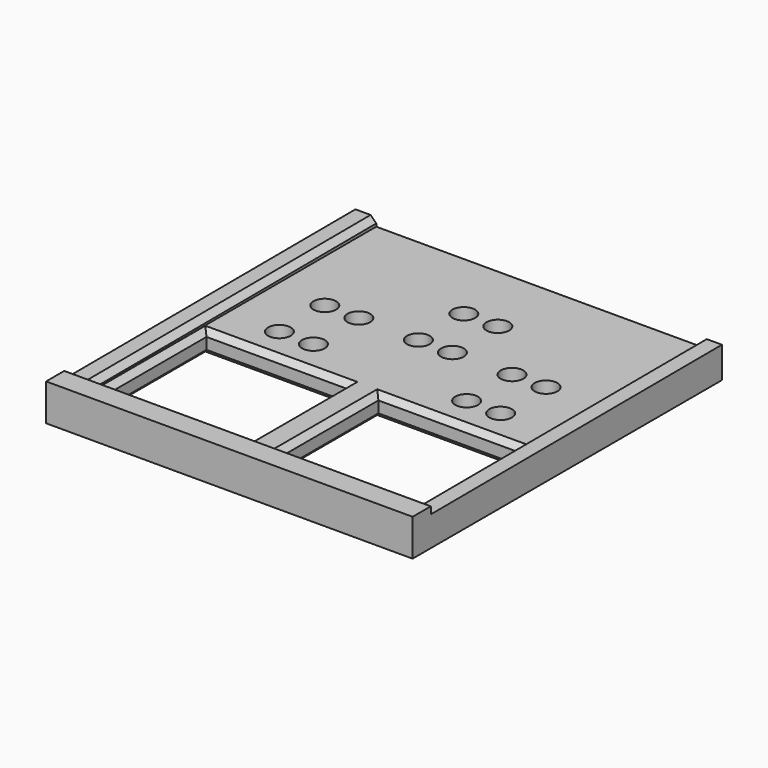
from build123d import *

# Parameters (mm, degrees)
F0_W     = 64.6
F0_H     = 136.3
F0_W_2   = 49.6
F0_H_2   = 48.8
F1_DEPTH = 13
F3_DEPTH = 57.25
F4_DEPTH = 64.6
F5_SIZE  = 2
F6_R     = 2
F7_DEPTH = 8
F6_R_2   = 4
F8_DEPTH = 5.5


with BuildPart() as f1:
    # F0 (on Top) → F1 (new body)
    with BuildSketch(Plane.XY):
        with Locations((-32.3, 15.001252)):
            Rectangle(F0_W, F0_H)
        with Locations((-30.3, -18.748748)):
            Rectangle(F0_W_2, F0_H_2, mode=Mode.SUBTRACT)
    extrude(amount=-F1_DEPTH)

    # F2 (on face) → F3 (cut)
    with BuildSketch(Plane.YZ):
        Polygon((-45.148748, -2.5), (-45.148748, -1), (-49.148748, -5), (83.151252, -5), (83.151252, -2), align=None)
    extrude(amount=-F3_DEPTH, mode=Mode.SUBTRACT)

    # F2 (on face) → F4 (cut, through all)
    with BuildSketch(Plane.YZ):
        Polygon((83.151252, 0), (-45.148748, 0), (-45.148748, -1), (-45.148748, -2.5), (83.151252, -2), align=None)
    extrude(amount=-F4_DEPTH, mode=Mode.SUBTRACT)

    # F5
    f5_edges = [f1.edges().sort_by_distance(p)[0] for p in [
        (-57.25, 19.001252, -2.25),
        (-30.3, -43.148748, -5),
        (-55.1, -18.748748, -5),
        (-30.3, 5.651252, -5),
        (-5.5, -18.748748, -5),
        (-30.3, 5.651252, -13),
        (-55.1, -18.748748, -13),
        (-30.3, -43.148748, -13),
        (-5.5, -18.748748, -13),
    ]]
    chamfer(f5_edges, length=F5_SIZE)

    # F6 (on face) → F7 (cut, through all)
    with BuildSketch(Plane.XY.offset(-5)):
        with Locations((-6, 57.651252)):
            Circle(F6_R)
        with Locations((-6, 37.651252)):
            Circle(F6_R)
        with Locations((-27, 37.651252)):
            Circle(F6_R)
        with Locations((-39, 37.651252)):
            Circle(F6_R)
        with Locations((-39, 17.651252)):
            Circle(F6_R)
        with Locations((-27, 17.651252)):
            Circle(F6_R)
    extrude(amount=-F7_DEPTH, mode=Mode.SUBTRACT)

    # F6 (on face) → F8 (cut)
    with BuildSketch(Plane.XY.offset(-5)):
        with Locations((-6, 57.651252)):
            Circle(F6_R_2)
        with Locations((-6, 57.651252)):
            Circle(F6_R, mode=Mode.SUBTRACT)
        with Locations((-6, 37.651252)):
            Circle(F6_R_2)
        with Locations((-6, 37.651252)):
            Circle(F6_R, mode=Mode.SUBTRACT)
        with Locations((-27, 37.651252)):
            Circle(F6_R_2)
        with Locations((-27, 37.651252)):
            Circle(F6_R, mode=Mode.SUBTRACT)
        with Locations((-39, 37.651252)):
            Circle(F6_R_2)
        with Locations((-39, 37.651252)):
            Circle(F6_R, mode=Mode.SUBTRACT)
        with Locations((-39, 17.651252)):
            Circle(F6_R_2)
        with Locations((-39, 17.651252)):
            Circle(F6_R, mode=Mode.SUBTRACT)
        with Locations((-27, 17.651252)):
            Circle(F6_R_2)
        with Locations((-27, 17.651252)):
            Circle(F6_R, mode=Mode.SUBTRACT)
    extrude(amount=-F8_DEPTH, mode=Mode.SUBTRACT)

    # F9: F1 across face


with BuildPart() as f1_1:
    add(f1.part)
    add(f1.part.mirror(Plane(origin=(0, 13.153307, -8.806367), x_dir=(0, 1, 0), z_dir=(1, 0, 0))))


solid = f1_1.part
